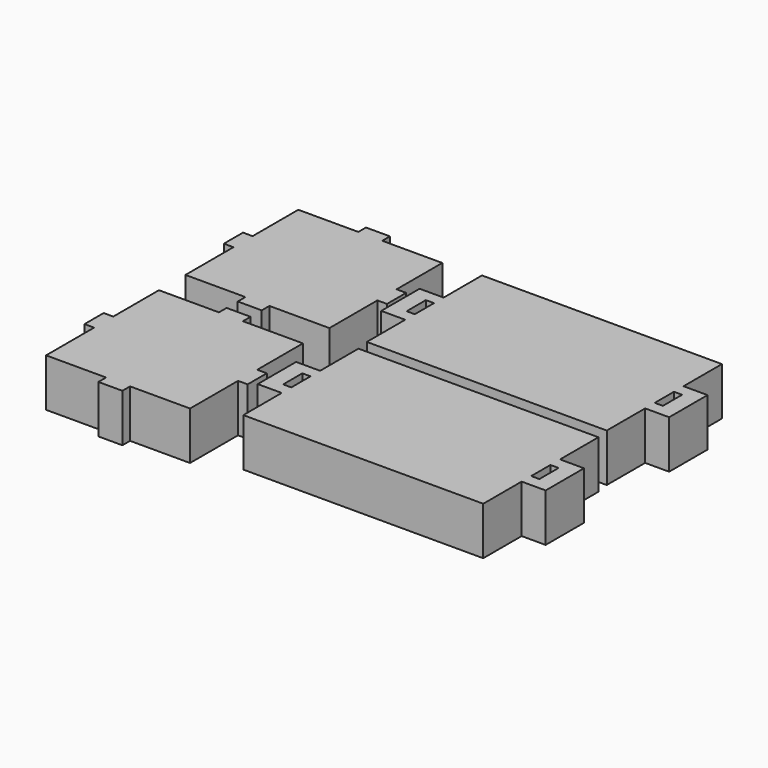
from build123d import *

# Parameters (mm, degrees)
F0_W     = 5.08
F0_H     = 12.7
F0_W_2   = 12.7
F0_H_2   = 5.08
F0_W_3   = 2.032
F1_DEPTH = 25.4


with BuildPart() as f1:
    # F0 (on Top) → F1 (new body)
    with BuildSketch(Plane.XY):
        Polygon((-63.5, 63.5), (-63.5, 38.1), (63.5, 38.1), (63.5, 63.5), (63.5, 69.85), (63.5, 76.2), (63.5, 82.55), (63.5, 88.9), (63.5, 114.3), (-63.5, 114.3), (-63.5, 88.9), (-63.5, 82.55), (-63.5, 76.2), (-63.5, 69.85), align=None)
        Polygon((-76.2, 63.5), (-63.5, 63.5), (-63.5, 69.85), (-67.818, 69.85), (-69.85, 69.85), (-69.85, 82.55), (-67.818, 82.55), (-63.5, 82.55), (-63.5, 88.9), (-76.2, 88.9), align=None)
        Polygon((63.5, 69.85), (63.5, 63.5), (76.2, 63.5), (76.2, 88.9), (63.5, 88.9), (63.5, 82.55), (67.818, 82.55), (69.85, 82.55), (69.85, 69.85), (68.2625, 69.85), (67.818, 69.85), (66.04, 69.85), align=None)
        with Locations((-80.772, 76.2)):
            Rectangle(F0_W, F0_H)
        Polygon((-83.312, 69.85), (-83.312, 82.55), (-83.312, 112.775996), (-115.062, 112.775996), (-127.762, 112.775996), (-159.512, 112.775996), (-159.512, 82.55), (-159.512, 69.85), (-159.512, 38.1), (-127.762, 38.1), (-115.062, 38.1), (-83.312, 38.1), align=None)
        with Locations((-121.412, 115.315996)):
            Rectangle(F0_W_2, F0_H_2)
        with Locations((-121.412, 35.56)):
            Rectangle(F0_W_2, F0_H_2)
        with Locations((-162.052, 76.2)):
            Rectangle(F0_W, F0_H)
        Polygon((-62.432505, -19.55114), (-62.432505, -44.95114), (64.567495, -44.95114), (64.567495, -19.55114), (64.567495, -13.20114), (64.567495, -6.85114), (64.567495, -0.50114), (64.567495, 5.84886), (64.567495, 31.24886), (-62.432505, 31.24886), (-62.432505, 5.84886), (-62.432505, -0.50114), (-62.432505, -6.85114), (-62.432505, -13.20114), align=None)
        Polygon((-75.132505, -19.55114), (-62.432505, -19.55114), (-62.432505, -13.20114), (-66.750505, -13.20114), (-68.782505, -13.20114), (-68.782505, -0.50114), (-66.750505, -0.50114), (-62.432505, -0.50114), (-62.432505, 5.84886), (-75.132505, 5.84886), align=None)
        Polygon((64.567495, -13.20114), (64.567495, -19.55114), (77.267495, -19.55114), (77.267495, 5.84886), (64.567495, 5.84886), (64.567495, -0.50114), (68.885495, -0.50114), (70.917495, -0.50114), (70.917495, -13.20114), (69.329995, -13.20114), (68.885495, -13.20114), (67.107495, -13.20114), align=None)
        Polygon((-115.062, -54.102), (-83.312, -54.102), (-83.312, -22.352), (-83.312, -9.652), (-83.312, 20.573996), (-115.062, 20.573996), (-127.762, 20.573996), (-159.512, 20.573996), (-159.512, -9.652), (-159.512, -22.352), (-159.512, -54.102), (-127.762, -54.102), align=None)
        with Locations((-80.772, -16.002)):
            Rectangle(F0_W, F0_H)
        with Locations((-121.412, -56.642)):
            Rectangle(F0_W_2, F0_H_2)
        with Locations((-121.412, 23.113996)):
            Rectangle(F0_W_2, F0_H_2)
        with Locations((-162.052, -16.002)):
            Rectangle(F0_W, F0_H)
        with Locations((-67.766505, -6.85114)):
            Rectangle(F0_W_3, F0_H)
        Polygon((68.885495, -0.50114), (68.885495, -13.20114), (69.329995, -13.20114), (70.917495, -13.20114), (70.917495, -0.50114), align=None)
        Polygon((67.818, 82.55), (67.818, 69.85), (68.2625, 69.85), (69.85, 69.85), (69.85, 82.55), align=None)
        with Locations((-68.834, 76.2)):
            Rectangle(F0_W_3, F0_H)
    extrude(amount=F1_DEPTH)


solid = f1.part
